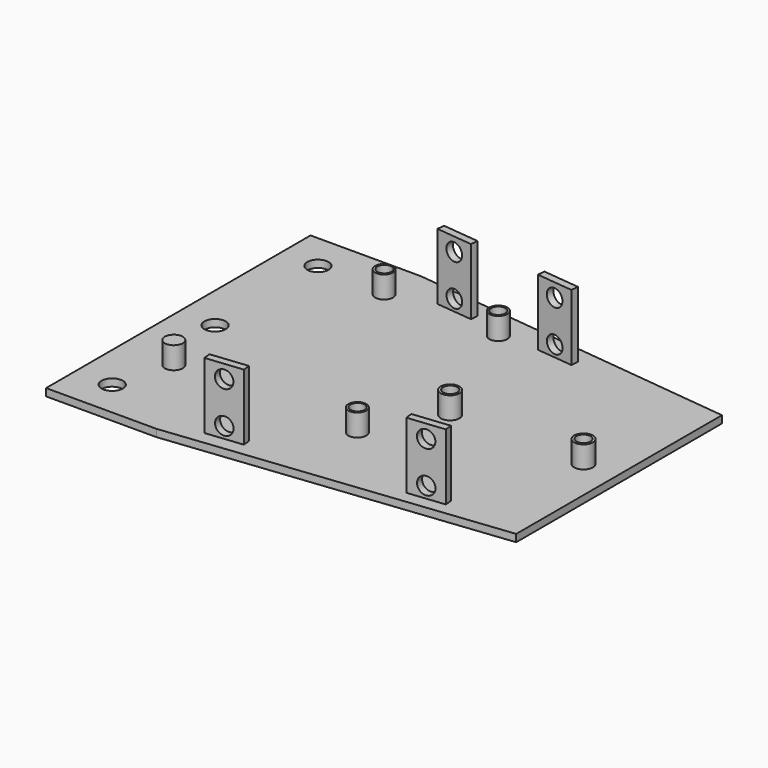
from build123d import *

# Parameters (mm, degrees)
SKETCH048_R                = 2.34
EXTRUDE050_DEPTH           = 20
SKETCH047_W                = 10
SKETCH047_H                = 20
EXTRUDE049_DEPTH           = 2
EXTRUDE049_PLACEMENT_ANGLE = 90
CUT121_PLACEMENT_ANGLE     = 96
CUT120_PLACEMENT_ANGLE     = 96
CUT119_PLACEMENT_ANGLE     = 84
CUT118_PLACEMENT_ANGLE     = 84
SKETCH018_R                = 1.955414
SKETCH018_R_2              = 1.945
SKETCH018_R_3              = 1.945712
EXTRUDE054_DEPTH           = 30
SKETCH017_R                = 2.552893
SKETCH017_R_2              = 2.443798
EXTRUDE192_DEPTH           = 7
SKETCH003_R                = 2.9
EXTRUDE052_DEPTH           = 50
EXTRUDE191_DEPTH           = 2


with BuildPart() as tornillos010:
    # Sketch048 (on Face6 of Extrude049) → Extrude050 (new body)
    with BuildSketch(Plane(origin=(-98, -107, 0), x_dir=(0, -1, 0), z_dir=(-1, 0, 0))):
        with Locations((-135.010223, 26.301971)):
            Circle(SKETCH048_R)
        with Locations((-135.047425, 15.116198)):
            Circle(SKETCH048_R)
    extrude(amount=EXTRUDE050_DEPTH)


with BuildPart() as tornillos010_1:
    # Extrude050 placement: moved
    add(tornillos010.part.moved(Location((17, 0, 0))))


with BuildPart() as soporte008:
    # Sketch047 → Extrude049 (new body)
    with BuildSketch(Plane.XZ):
        with Locations((-135, 20)):
            Rectangle(SKETCH047_W, SKETCH047_H)
    extrude(amount=EXTRUDE049_DEPTH)


with BuildPart() as soporte008_1:
    # Extrude049 placement: moved
    add(soporte008.part.moved(Location((-96, -107, 0))).rotate(Axis((-96, -107, 0), (0, 0, -1)), EXTRUDE049_PLACEMENT_ANGLE))


with BuildPart() as soporte024:
    # Cut121 base: copy of Soporte008
    add(soporte008_1.part)

    # Cut121: cut Tornillos010
    add(tornillos010_1.part, mode=Mode.SUBTRACT)


with BuildPart() as soporte024_1:
    # Cut121 placement: moved
    add(soporte024.part.moved(Location((7.869711, -10.850119, 18))).rotate(Axis((7.869711, -10.850119, 18), (0, 0, -1)), CUT121_PLACEMENT_ANGLE))


with BuildPart() as soporte023:
    # Cut120 base: copy of Soporte008
    add(soporte008_1.part)

    # Cut120: cut Tornillos010
    add(tornillos010_1.part, mode=Mode.SUBTRACT)


with BuildPart() as soporte023_1:
    # Cut120 placement: moved
    add(soporte023.part.moved(Location((37.705367, -13.985973, 18))).rotate(Axis((37.705367, -13.985973, 18), (0, 0, -1)), CUT120_PLACEMENT_ANGLE))


with BuildPart() as soporte022:
    # Cut119 base: copy of Soporte008
    add(soporte008_1.part)

    # Cut119: cut Tornillos010
    add(tornillos010_1.part, mode=Mode.SUBTRACT)


with BuildPart() as soporte022_1:
    # Cut119 placement: moved
    add(soporte022.part.moved(Location((26.348989, -93.015079, 18))).rotate(Axis((26.348989, -93.015079, 18), (0, 0, -1)), CUT119_PLACEMENT_ANGLE))


with BuildPart() as soporte021:
    # Cut118 base: copy of Soporte008
    add(soporte008_1.part)

    # Cut118: cut Tornillos010
    add(tornillos010_1.part, mode=Mode.SUBTRACT)


with BuildPart() as soporte021_1:
    # Cut118 placement: moved
    add(soporte021.part.moved(Location((77.069606, -87.684127, 18))).rotate(Axis((77.069606, -87.684127, 18), (0, 0, -1)), CUT118_PLACEMENT_ANGLE))


with BuildPart() as extrude054:
    # Sketch018 → Extrude054 (new body)
    with BuildSketch(Plane.XY.offset(36)):
        with Locations((74.789169, 44.062363)):
            Circle(SKETCH018_R)
        with Locations((111.023758, 44.110783)):
            Circle(SKETCH018_R)
        with Locations((29.159777, 78.682182)):
            Circle(SKETCH018_R_2)
        with Locations((60.039303, 78.850616)):
            Circle(SKETCH018_R_3)
        with Locations((64.412148, 25.488655)):
            Circle(SKETCH018_R_3)
    extrude(amount=EXTRUDE054_DEPTH)


with BuildPart() as extrude054_1:
    # Extrude054 placement: moved
    add(extrude054.part.moved(Location((0, 0, -22))))


with BuildPart() as base_tornillos001:
    # Sketch017 → Extrude192 (new body)
    with BuildSketch(Plane.XY.offset(30)):
        with Locations((74.792107, 44.0089)):
            Circle(SKETCH017_R)
        with Locations((111.059273, 44.092655)):
            Circle(SKETCH017_R)
        with Locations((60.050713, 78.85218)):
            Circle(SKETCH017_R_2)
        with Locations((29.144051, 78.600906)):
            Circle(SKETCH017_R_2)
        with Locations((14.570175, 25.247131)):
            Circle(SKETCH017_R_2)
        with Locations((64.40612, 25.414646)):
            Circle(SKETCH017_R_2)
    extrude(amount=EXTRUDE192_DEPTH)


with BuildPart() as base_tornillos001_1:
    # Extrude192 placement: moved
    add(base_tornillos001.part.moved(Location((0, 0, -1))))


with BuildPart() as tornillos053:
    # Sketch003 → Extrude052 (new body)
    with BuildSketch(Plane.XY.offset(10)):
        with Locations((10, 80.016689)):
            Circle(SKETCH003_R)
        with Locations((10, 45.008344)):
            Circle(SKETCH003_R)
        with Locations((10, 10)):
            Circle(SKETCH003_R)
    extrude(amount=EXTRUDE052_DEPTH)


with BuildPart() as tornillos053_1:
    # Extrude052 placement: moved
    add(tornillos053.part.moved(Location((0, 0, -21))))


with BuildPart() as obj1:
    # Sketch173 → Extrude191 (new body)
    with BuildSketch(Plane.XY):
        Polygon((0, 0), (30, 0), (120, 10), (120, 80), (30, 90), (0, 90), align=None)
    extrude(amount=EXTRUDE191_DEPTH)


with BuildPart() as obj1_1:
    # Extrude191 placement: moved
    add(obj1.part.moved(Location((0, 0, 28))))

    # Cut116: cut Tornillos053
    add(tornillos053_1.part, mode=Mode.SUBTRACT)

    # Fusion063: union Base tornillos001
    add(base_tornillos001_1.part)

    # Cut117: cut Extrude054
    add(extrude054_1.part, mode=Mode.SUBTRACT)

    # Fusion015: union Soporte021
    add(soporte021_1.part)

    # Fusion016: union Soporte022
    add(soporte022_1.part)

    # Fusion017: union Soporte023
    add(soporte023_1.part)

    # Fusion064: union Soporte024
    add(soporte024_1.part)


solid = obj1_1.part
